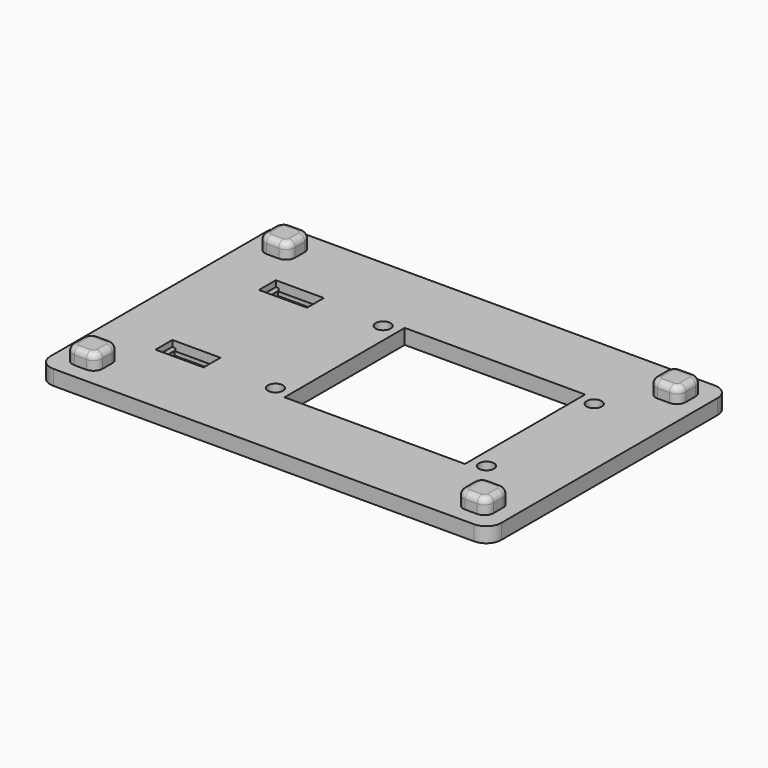
from build123d import *

# Parameters (mm, degrees)
SKETCH_W        = 150
SKETCH_H        = 100
PAD_DEPTH       = 5
FILLET_R        = 5
SKETCH001_W     = 10
SKETCH001_H     = 10
PAD001_DEPTH    = 5
FILLET001_R     = 3
FILLET002_R     = 2
SKETCH002_R     = 2.5
POCKET_DEPTH    = 5
SKETCH003_W     = 60
SKETCH003_H     = 50
POCKET001_DEPTH = 5.001
SKETCH004_W     = 14
SKETCH004_H     = 7
POCKET002_DEPTH = 5.001
SKETCH005_W     = 16
SKETCH005_H     = 7
POCKET003_DEPTH = 2
SKETCH006_W     = 16
SKETCH006_H     = 9
POCKET004_DEPTH = 2
FILLET003_R     = 0.4


with BuildPart() as part:
    # Sketch → Pad (new body)
    with BuildSketch(Plane.XY):
        with Locations((75, 50)):
            Rectangle(SKETCH_W, SKETCH_H)
    extrude(amount=PAD_DEPTH)

    # Fillet
    fillet_edges = [part.edges().sort_by_distance(p)[0] for p in [
        (0, 0, 2.5),
        (150, 0, 2.5),
        (150, 100, 2.5),
        (0, 100, 2.5),
    ]]
    fillet(fillet_edges, radius=FILLET_R)

    # Sketch001 → Pad001 (new body)
    with BuildSketch(Plane.XY.offset(5)):
        with Locations((10, 10)):
            Rectangle(SKETCH001_W, SKETCH001_H)
        with Locations((140, 90)):
            Rectangle(SKETCH001_W, SKETCH001_H)
        with Locations((10, 90)):
            Rectangle(SKETCH001_W, SKETCH001_H)
        with Locations((140, 10)):
            Rectangle(SKETCH001_W, SKETCH001_H)
    extrude(amount=PAD001_DEPTH)

    # Fillet001
    fillet001_edges = [part.edges().sort_by_distance(p)[0] for p in [
        (5, 5, 7.5),
        (15, 5, 7.5),
        (5, 15, 7.5),
        (15, 15, 7.5),
        (5, 95, 7.5),
        (15, 95, 7.5),
        (5, 85, 7.5),
        (15, 85, 7.5),
        (135, 5, 7.5),
        (145, 5, 7.5),
        (145, 15, 7.5),
        (135, 85, 7.5),
        (145, 85, 7.5),
        (145, 95, 7.5),
        (135, 95, 7.5),
        (135, 15, 7.5),
    ]]
    fillet(fillet001_edges, radius=FILLET001_R)

    # Fillet002
    fillet002_edges = [part.edges().sort_by_distance(p)[0] for p in [
        (10, 15, 10),
        (140, 15, 10),
        (140, 95, 10),
        (10, 95, 10),
    ]]
    fillet(fillet002_edges, radius=FILLET002_R)

    # Sketch002 → Pocket (cut)
    with BuildSketch(Plane.XY.offset(5)):
        with Locations((56.8, 72.4)):
            Circle(SKETCH002_R)
        with Locations((127, 72.4)):
            Circle(SKETCH002_R)
        with Locations((56.8, 27.6)):
            Circle(SKETCH002_R)
        with Locations((127, 27.6)):
            Circle(SKETCH002_R)
    extrude(amount=-POCKET_DEPTH, mode=Mode.SUBTRACT)

    # Sketch003 → Pocket001 (cut, through all)
    with BuildSketch(Plane.XY.offset(5)):
        with Locations((91.9, 50)):
            Rectangle(SKETCH003_W, SKETCH003_H)
    extrude(amount=-POCKET001_DEPTH, mode=Mode.SUBTRACT)

    # Sketch004 → Pocket002 (cut, through all)
    with BuildSketch(Plane.XY.offset(5)):
        with Locations((27, 71.5)):
            Rectangle(SKETCH004_W, SKETCH004_H)
        with Locations((27, 28.5)):
            Rectangle(SKETCH004_W, SKETCH004_H)
    extrude(amount=-POCKET002_DEPTH, mode=Mode.SUBTRACT)

    # Sketch005 → Pocket003 (cut)
    with BuildSketch(Plane.XY.offset(5)):
        with Locations((27, 71.5)):
            Rectangle(SKETCH005_W, SKETCH005_H)
        with Locations((27, 28.5)):
            Rectangle(SKETCH005_W, SKETCH005_H)
    extrude(amount=-POCKET003_DEPTH, mode=Mode.SUBTRACT)

    # Sketch006 → Pocket004 (cut)
    with BuildSketch(Plane(origin=(0, 0, 0), x_dir=(1, 0, 0), z_dir=(0, 0, -1))):
        with Locations((27, -28.5)):
            Rectangle(SKETCH006_W, SKETCH006_H)
        with Locations((27, -71.5)):
            Rectangle(SKETCH006_W, SKETCH006_H)
    extrude(amount=-POCKET004_DEPTH, mode=Mode.SUBTRACT)

    # Fillet003
    fillet003_edges = [part.edges().sort_by_distance(p)[0] for p in [
        (34, 28.5, 3),
        (34, 28.5, 2),
        (20, 28.5, 3),
        (20, 28.5, 2),
        (20, 71.5, 3),
        (20, 71.5, 2),
        (34, 71.5, 3),
        (34, 71.5, 2),
    ]]
    fillet(fillet003_edges, radius=FILLET003_R)


solid = part.part
